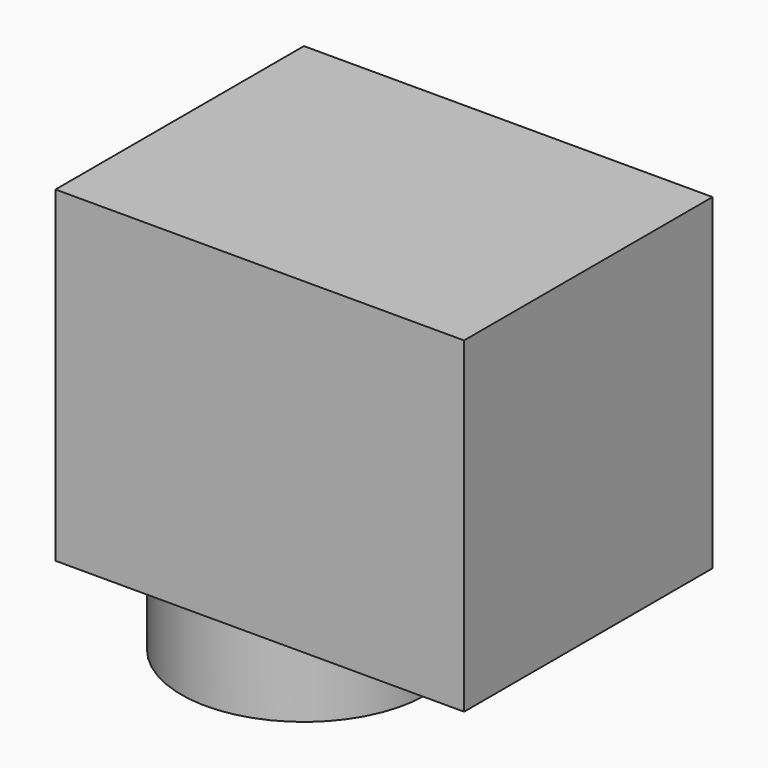
from build123d import *

# Parameters (mm, degrees)
SKETCH_W     = 25
SKETCH_H     = 20
PAD_DEPTH    = 19
SKETCH001_R  = 7.5
PAD001_DEPTH = 12.5


with BuildPart() as part:
    # Sketch → Pad (new body)
    with BuildSketch(Plane.XZ):
        with Locations((12.5, 10)):
            Rectangle(SKETCH_W, SKETCH_H)
    extrude(amount=PAD_DEPTH)

    # Sketch001 → Pad001 (join, symmetric)
    with BuildSketch(Plane.XY):
        Circle(SKETCH001_R)
    extrude(amount=PAD001_DEPTH, both=True)


solid = part.part
